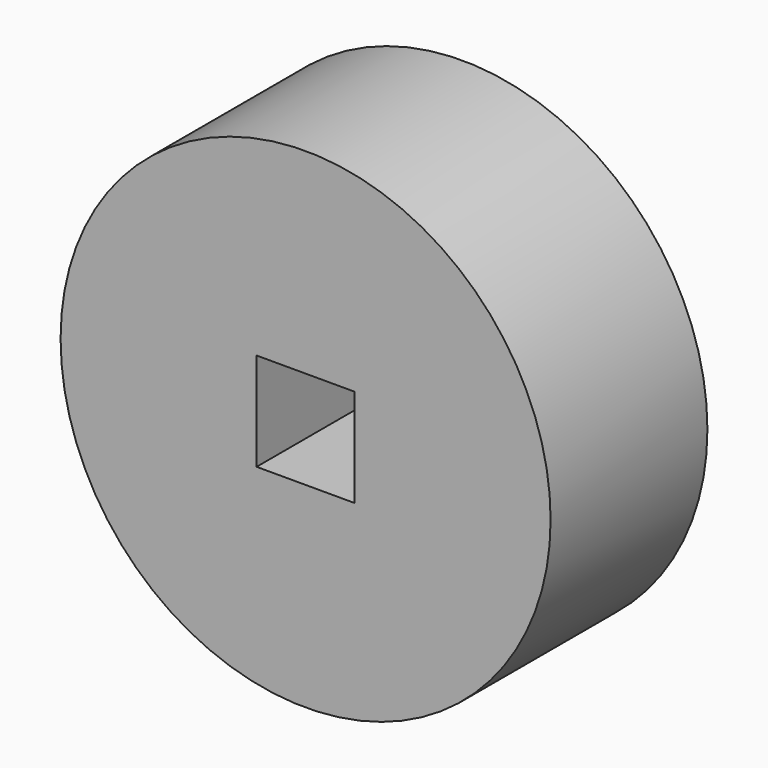
from build123d import *

# Parameters (mm, degrees)
F0_R     = 63.5
F1_DEPTH = 50.8
F2_W     = 25.4
F2_H     = 25.4
F3_DEPTH = 50.8
F4_R     = 1.5875
F5_DEPTH = 31.75


with BuildPart() as f1:
    # F0 (on Front) → F1 (new body)
    with BuildSketch(Plane.XZ):
        Circle(F0_R)
    extrude(amount=F1_DEPTH)

    # F2 (on face) → F3 (cut)
    with BuildSketch(Plane(origin=(0, 0, 0), x_dir=(-1, 0, 0), z_dir=(0, 1, 0))):
        Rectangle(F2_W, F2_H)
    extrude(amount=-F3_DEPTH, mode=Mode.SUBTRACT)

    # F4 (on Right) → F5 (cut)
    with BuildSketch(Plane.YZ):
        with Locations((-7.698557, 0)):
            Circle(F4_R)
    extrude(amount=-F5_DEPTH, mode=Mode.SUBTRACT)


solid = f1.part
